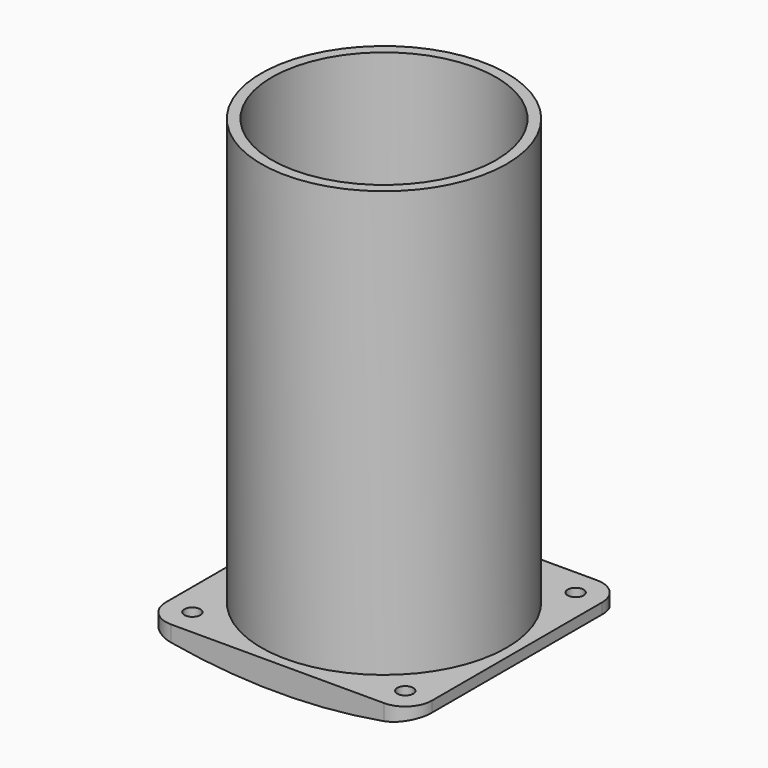
from build123d import *

# Parameters (mm, degrees)
F0_W     = 50
F0_H     = 50
F0_R     = 1.5
F0_R_2   = 21.068216
F1_DEPTH = 8
F3_DEPTH = 100
F4_R     = 23.068216
F4_R_2   = 21.068216
F5_DEPTH = 80
F6_R     = 5


with BuildPart() as f1:
    # F0 (on Top) → F1 (new body)
    with BuildSketch(Plane.XY):
        Rectangle(F0_W, F0_H)
        with Locations((-20, -20)):
            Circle(F0_R, mode=Mode.SUBTRACT)
        with Locations((20, -20)):
            Circle(F0_R, mode=Mode.SUBTRACT)
        with Locations((-20, 20)):
            Circle(F0_R, mode=Mode.SUBTRACT)
        Circle(F0_R_2, mode=Mode.SUBTRACT)
        with Locations((20, 20)):
            Circle(F0_R, mode=Mode.SUBTRACT)
    extrude(amount=F1_DEPTH)

    # F2 (on face) → F3 (cut)
    with BuildSketch(Plane.XZ.offset(25)):
        with BuildLine():
            ThreePointArc((25, 6), (0, 3.249722), (-25, 6))
            Line((-25, 6), (-25, 0))
            Line((-25, 0), (25, 0))
            Line((25, 0), (25, 6))
        make_face()
    extrude(amount=-F3_DEPTH, mode=Mode.SUBTRACT)

    # F4 (on face) → F5 (join)
    with BuildSketch(Plane.XY.offset(8)):
        Circle(F4_R)
        Circle(F4_R_2, mode=Mode.SUBTRACT)
    extrude(amount=F5_DEPTH)

    # F6
    f6_edges = [f1.edges().sort_by_distance(p)[0] for p in [
        (25, -25, 7),
        (25, 25, 7),
        (-25, 25, 7),
        (-25, -25, 7),
    ]]
    fillet(f6_edges, radius=F6_R)


solid = f1.part
